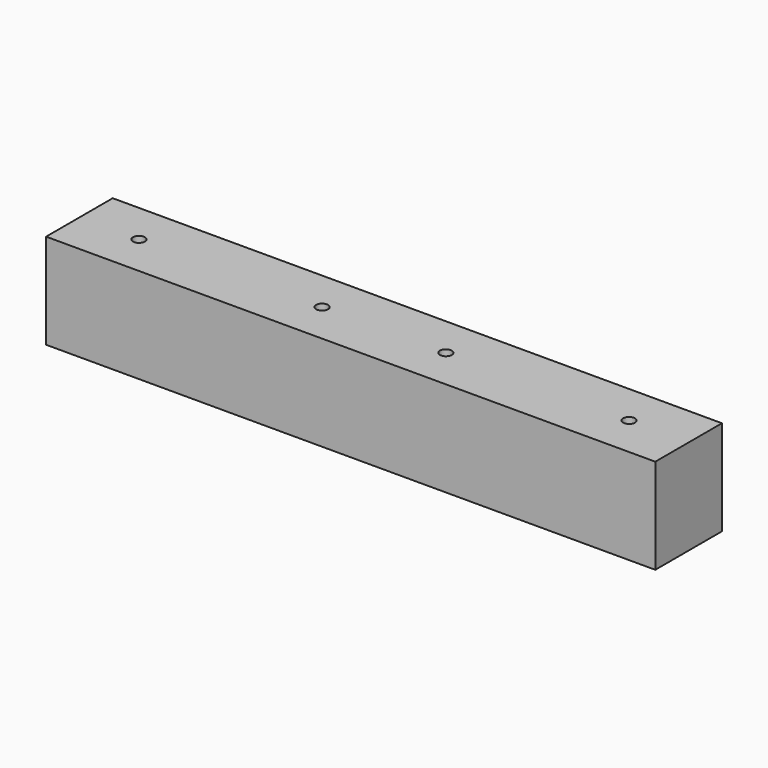
from build123d import *

# Parameters (mm, degrees)
F0_W           = 35
F0_H           = 40
F1_DEPTH       = 256
F3_D           = 5
F3_CSINK_D     = 10
F3_CSINK_ANGLE = 90


with BuildPart() as f1:
    # F0 (on Right) → F1 (new body)
    with BuildSketch(Plane.YZ):
        with Locations((17.5, 27.248142)):
            Rectangle(F0_W, F0_H)
    extrude(amount=F1_DEPTH)

    # F3 (through all)
    with Locations(Plane(origin=(0, 0, 7.248142), x_dir=(1, 0, 0), z_dir=(0, 0, -1))):
        with Locations((231, -17.5), (154, -17.5), (102, -17.5), (25, -17.5)):
            CounterSinkHole(F3_D / 2, F3_CSINK_D / 2, counter_sink_angle=F3_CSINK_ANGLE)


solid = f1.part
